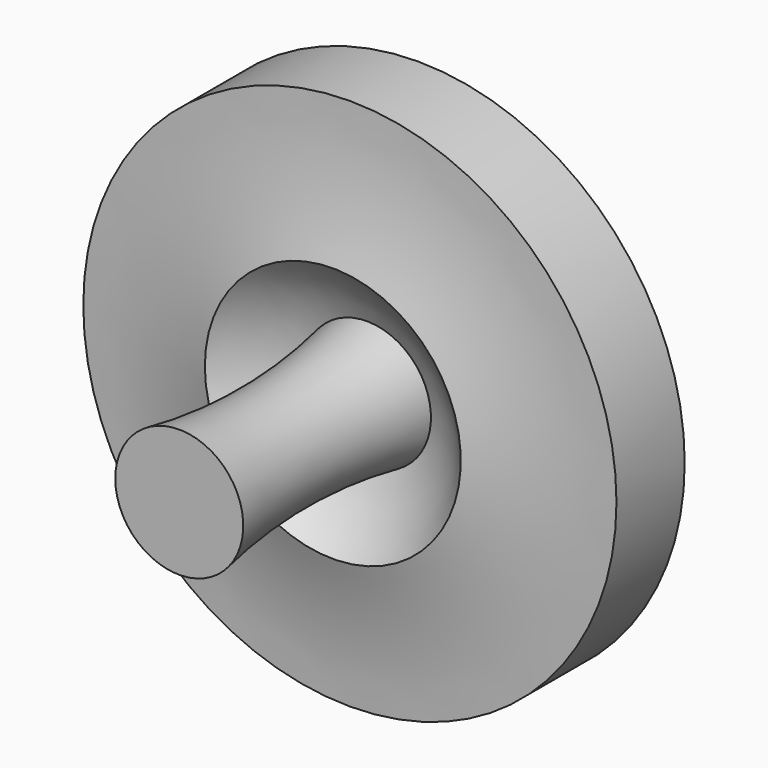
from build123d import *


with BuildPart() as part:
    # Sketch → Revolution (revolve)
    with BuildSketch(Plane.XY):
        with BuildLine():
            Line((-25, 18), (-25, 10))
            ThreePointArc((-12, 8), (-18.426534, 9.477531), (-25, 10))
            ThreePointArc((-6, 12), (-9.243946, 10.365919), (-12, 8))
            ThreePointArc((-6, -10), (-4.983048, 1), (-6, 12))
            Line((-6, -10), (0, -10))
            Line((0, -10), (0, 22))
            ThreePointArc((-25, 18), (-12.317654, 18.860338), (0, 22))
        make_face()
    revolve(axis=Axis((0, 0, 0), (0, 1, 0)))


solid = part.part
